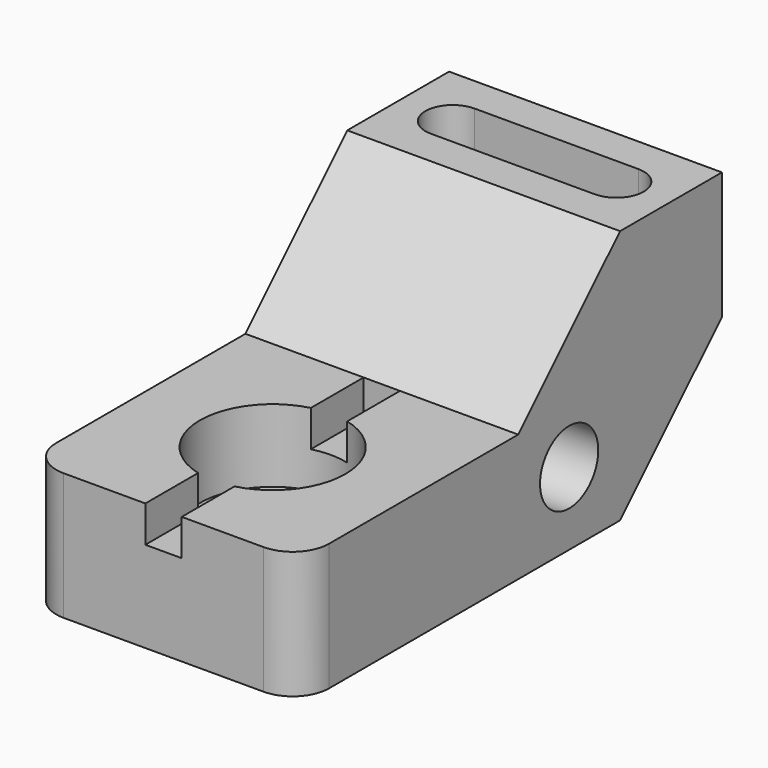
from build123d import *

# Parameters (mm, degrees)
F1_DEPTH       = 76.2
F2_W           = 10.16
F2_H           = 76.2
F3_DEPTH       = 10.16
F5_DEPTH       = 27.94
F7_D           = 15.24
F7_START       = 10.16
F7_CBORE_D     = 40.64
F7_CBORE_DEPTH = 10.16
F9_D           = 20.32
F10_R          = 10.16


with BuildPart() as f1:
    # F0 (on Right) → F1 (new body)
    with BuildSketch(Plane.YZ):
        Polygon((-35.56, 35.56), (-111.76, 35.56), (-111.76, 0), (0, 0), (35.56, 35.56), (35.56, 71.12), (0, 71.12), align=None)
    extrude(amount=F1_DEPTH)

    # F2 (on face) → F3 (cut)
    with BuildSketch(Plane.XY.offset(35.56)):
        with Locations((38.1, -73.66)):
            Rectangle(F2_W, F2_H)
    extrude(amount=-F3_DEPTH, mode=Mode.SUBTRACT)

    # F4 (on face) → F5 (cut)
    with BuildSketch(Plane.XY.offset(71.12)):
        with BuildLine():
            Line((60.96, 25.4), (15.24, 25.4))
            ThreePointArc((15.24, 25.4), (7.62, 17.78), (15.24, 10.16))
            Line((15.24, 10.16), (60.96, 10.16))
            ThreePointArc((60.96, 10.16), (68.58, 17.78), (60.96, 25.4))
        make_face()
    extrude(amount=-F5_DEPTH, mode=Mode.SUBTRACT)

    # F7 (through all)
    # its depths count from where the whole tool has entered the part; down to there all is cleared
    with Locations(Plane.XY.offset(35.56).offset(-F7_START)):
        with Locations((38.1, -73.66)):
            CounterBoreHole(F7_D / 2, F7_CBORE_D / 2, F7_CBORE_DEPTH)

    # F9 (through all)
    with Locations(Plane.YZ.offset(76.2)):
        with Locations((-17.78, 20.32)):
            Hole(F9_D / 2)

    # F10
    f10_edges = [f1.edges().sort_by_distance(p)[0] for p in [
        (0, -111.76, 17.78),
        (76.2, -111.76, 17.78),
    ]]
    fillet(f10_edges, radius=F10_R)


solid = f1.part
